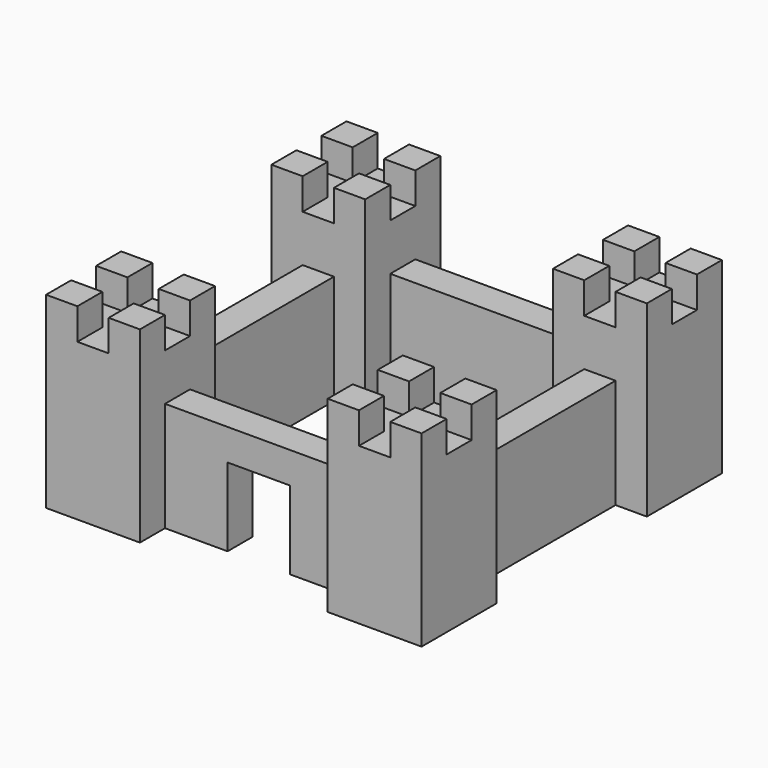
from build123d import *

# Parameters (mm, degrees)
BOX009_W     = 1
BOX009_H     = 1
BOX009_DEPTH = 1
BOX008_W     = 1
BOX008_H     = 1
BOX008_DEPTH = 1
BOX007_W     = 1
BOX007_H     = 1
BOX007_DEPTH = 1
BOX006_W     = 1
BOX006_H     = 1
BOX006_DEPTH = 1
BOX005_W     = 1
BOX005_H     = 1
BOX005_DEPTH = 1
BOX003_W     = 3
BOX003_H     = 3
BOX003_DEPTH = 6
BOX015_W     = 1
BOX015_H     = 1
BOX015_DEPTH = 1
BOX014_W     = 1
BOX014_H     = 1
BOX014_DEPTH = 1
BOX013_W     = 1
BOX013_H     = 1
BOX013_DEPTH = 1
BOX012_W     = 1
BOX012_H     = 1
BOX012_DEPTH = 1
BOX011_W     = 1
BOX011_H     = 1
BOX011_DEPTH = 1
BOX010_W     = 3
BOX010_H     = 3
BOX010_DEPTH = 6
BOX021_W     = 1
BOX021_H     = 1
BOX021_DEPTH = 1
BOX020_W     = 1
BOX020_H     = 1
BOX020_DEPTH = 1
BOX019_W     = 1
BOX019_H     = 1
BOX019_DEPTH = 1
BOX018_W     = 1
BOX018_H     = 1
BOX018_DEPTH = 1
BOX017_W     = 1
BOX017_H     = 1
BOX017_DEPTH = 1
BOX016_W     = 3
BOX016_H     = 3
BOX016_DEPTH = 6
BOX027_W     = 1
BOX027_H     = 1
BOX027_DEPTH = 1
BOX026_W     = 1
BOX026_H     = 1
BOX026_DEPTH = 1
BOX025_W     = 1
BOX025_H     = 1
BOX025_DEPTH = 1
BOX024_W     = 1
BOX024_H     = 1
BOX024_DEPTH = 1
BOX023_W     = 1
BOX023_H     = 1
BOX023_DEPTH = 1
BOX022_W     = 3
BOX022_H     = 3
BOX022_DEPTH = 6
BOX002_W     = 2
BOX002_H     = 10
BOX002_DEPTH = 2.5
BOX001_W     = 8
BOX001_H     = 8
BOX001_DEPTH = 10
BOX_W        = 10
BOX_H        = 10
BOX_DEPTH    = 3.5


with BuildPart() as cubo009:
    # Box009 → Box009 (new body)
    with BuildSketch(Plane(origin=(-2, 1, 5), x_dir=(1, 0, 0), z_dir=(0, 0, 1))):
        with Locations((0.5, 0.5)):
            Rectangle(BOX009_W, BOX009_H)
    extrude(amount=BOX009_DEPTH)


with BuildPart() as cubo008:
    # Box008 → Box008 (new body)
    with BuildSketch(Plane(origin=(-4, 1, 5), x_dir=(1, 0, 0), z_dir=(0, 0, 1))):
        with Locations((0.5, 0.5)):
            Rectangle(BOX008_W, BOX008_H)
    extrude(amount=BOX008_DEPTH)


with BuildPart() as cubo007:
    # Box007 → Box007 (new body)
    with BuildSketch(Plane(origin=(-3, 1, 5), x_dir=(1, 0, 0), z_dir=(0, 0, 1))):
        with Locations((0.5, 0.5)):
            Rectangle(BOX007_W, BOX007_H)
    extrude(amount=BOX007_DEPTH)


with BuildPart() as cubo006:
    # Box006 → Box006 (new body)
    with BuildSketch(Plane(origin=(-3, 2, 5), x_dir=(1, 0, 0), z_dir=(0, 0, 1))):
        with Locations((0.5, 0.5)):
            Rectangle(BOX006_W, BOX006_H)
    extrude(amount=BOX006_DEPTH)


with BuildPart() as cubo005:
    # Box005 → Box005 (new body)
    with BuildSketch(Plane(origin=(-3, 0, 5), x_dir=(1, 0, 0), z_dir=(0, 0, 1))):
        with Locations((0.5, 0.5)):
            Rectangle(BOX005_W, BOX005_H)
    extrude(amount=BOX005_DEPTH)


with BuildPart() as cut006:
    # Box003 → Box003 (new body)
    with BuildSketch(Plane(origin=(-4, 0, 0), x_dir=(1, 0, 0), z_dir=(0, 0, 1))):
        with Locations((1.5, 1.5)):
            Rectangle(BOX003_W, BOX003_H)
    extrude(amount=BOX003_DEPTH)

    # Cut002: cut Cubo005
    add(cubo005.part, mode=Mode.SUBTRACT)

    # Cut003: cut Cubo006
    add(cubo006.part, mode=Mode.SUBTRACT)

    # Cut004: cut Cubo007
    add(cubo007.part, mode=Mode.SUBTRACT)

    # Cut005: cut Cubo008
    add(cubo008.part, mode=Mode.SUBTRACT)

    # Cut006: cut Cubo009
    add(cubo009.part, mode=Mode.SUBTRACT)


with BuildPart() as cut006_1:
    # Cut006 placement: moved
    add(cut006.part.moved(Location((12, -1, 0))))


with BuildPart() as cubo015:
    # Box015 → Box015 (new body)
    with BuildSketch(Plane(origin=(-2, 1, 5), x_dir=(1, 0, 0), z_dir=(0, 0, 1))):
        with Locations((0.5, 0.5)):
            Rectangle(BOX015_W, BOX015_H)
    extrude(amount=BOX015_DEPTH)


with BuildPart() as cubo014:
    # Box014 → Box014 (new body)
    with BuildSketch(Plane(origin=(-4, 1, 5), x_dir=(1, 0, 0), z_dir=(0, 0, 1))):
        with Locations((0.5, 0.5)):
            Rectangle(BOX014_W, BOX014_H)
    extrude(amount=BOX014_DEPTH)


with BuildPart() as cubo013:
    # Box013 → Box013 (new body)
    with BuildSketch(Plane(origin=(-3, 1, 5), x_dir=(1, 0, 0), z_dir=(0, 0, 1))):
        with Locations((0.5, 0.5)):
            Rectangle(BOX013_W, BOX013_H)
    extrude(amount=BOX013_DEPTH)


with BuildPart() as cubo012:
    # Box012 → Box012 (new body)
    with BuildSketch(Plane(origin=(-3, 2, 5), x_dir=(1, 0, 0), z_dir=(0, 0, 1))):
        with Locations((0.5, 0.5)):
            Rectangle(BOX012_W, BOX012_H)
    extrude(amount=BOX012_DEPTH)


with BuildPart() as cubo011:
    # Box011 → Box011 (new body)
    with BuildSketch(Plane(origin=(-3, 0, 5), x_dir=(1, 0, 0), z_dir=(0, 0, 1))):
        with Locations((0.5, 0.5)):
            Rectangle(BOX011_W, BOX011_H)
    extrude(amount=BOX011_DEPTH)


with BuildPart() as cut011:
    # Box010 → Box010 (new body)
    with BuildSketch(Plane(origin=(-4, 0, 0), x_dir=(1, 0, 0), z_dir=(0, 0, 1))):
        with Locations((1.5, 1.5)):
            Rectangle(BOX010_W, BOX010_H)
    extrude(amount=BOX010_DEPTH)

    # Cut007: cut Cubo011
    add(cubo011.part, mode=Mode.SUBTRACT)

    # Cut008: cut Cubo012
    add(cubo012.part, mode=Mode.SUBTRACT)

    # Cut009: cut Cubo013
    add(cubo013.part, mode=Mode.SUBTRACT)

    # Cut010: cut Cubo014
    add(cubo014.part, mode=Mode.SUBTRACT)

    # Cut011: cut Cubo015
    add(cubo015.part, mode=Mode.SUBTRACT)


with BuildPart() as cut011_1:
    # Cut011 placement: moved
    add(cut011.part.moved(Location((3, -1, 0))))


with BuildPart() as cubo021:
    # Box021 → Box021 (new body)
    with BuildSketch(Plane(origin=(-2, 1, 5), x_dir=(1, 0, 0), z_dir=(0, 0, 1))):
        with Locations((0.5, 0.5)):
            Rectangle(BOX021_W, BOX021_H)
    extrude(amount=BOX021_DEPTH)


with BuildPart() as cubo020:
    # Box020 → Box020 (new body)
    with BuildSketch(Plane(origin=(-4, 1, 5), x_dir=(1, 0, 0), z_dir=(0, 0, 1))):
        with Locations((0.5, 0.5)):
            Rectangle(BOX020_W, BOX020_H)
    extrude(amount=BOX020_DEPTH)


with BuildPart() as cubo019:
    # Box019 → Box019 (new body)
    with BuildSketch(Plane(origin=(-3, 1, 5), x_dir=(1, 0, 0), z_dir=(0, 0, 1))):
        with Locations((0.5, 0.5)):
            Rectangle(BOX019_W, BOX019_H)
    extrude(amount=BOX019_DEPTH)


with BuildPart() as cubo018:
    # Box018 → Box018 (new body)
    with BuildSketch(Plane(origin=(-3, 2, 5), x_dir=(1, 0, 0), z_dir=(0, 0, 1))):
        with Locations((0.5, 0.5)):
            Rectangle(BOX018_W, BOX018_H)
    extrude(amount=BOX018_DEPTH)


with BuildPart() as cubo017:
    # Box017 → Box017 (new body)
    with BuildSketch(Plane(origin=(-3, 0, 5), x_dir=(1, 0, 0), z_dir=(0, 0, 1))):
        with Locations((0.5, 0.5)):
            Rectangle(BOX017_W, BOX017_H)
    extrude(amount=BOX017_DEPTH)


with BuildPart() as cut016:
    # Box016 → Box016 (new body)
    with BuildSketch(Plane(origin=(-4, 0, 0), x_dir=(1, 0, 0), z_dir=(0, 0, 1))):
        with Locations((1.5, 1.5)):
            Rectangle(BOX016_W, BOX016_H)
    extrude(amount=BOX016_DEPTH)

    # Cut012: cut Cubo017
    add(cubo017.part, mode=Mode.SUBTRACT)

    # Cut013: cut Cubo018
    add(cubo018.part, mode=Mode.SUBTRACT)

    # Cut014: cut Cubo019
    add(cubo019.part, mode=Mode.SUBTRACT)

    # Cut015: cut Cubo020
    add(cubo020.part, mode=Mode.SUBTRACT)

    # Cut016: cut Cubo021
    add(cubo021.part, mode=Mode.SUBTRACT)


with BuildPart() as cut016_1:
    # Cut016 placement: moved
    add(cut016.part.moved(Location((3, 8, 0))))


with BuildPart() as cubo027:
    # Box027 → Box027 (new body)
    with BuildSketch(Plane(origin=(-2, 1, 5), x_dir=(1, 0, 0), z_dir=(0, 0, 1))):
        with Locations((0.5, 0.5)):
            Rectangle(BOX027_W, BOX027_H)
    extrude(amount=BOX027_DEPTH)


with BuildPart() as cubo026:
    # Box026 → Box026 (new body)
    with BuildSketch(Plane(origin=(-4, 1, 5), x_dir=(1, 0, 0), z_dir=(0, 0, 1))):
        with Locations((0.5, 0.5)):
            Rectangle(BOX026_W, BOX026_H)
    extrude(amount=BOX026_DEPTH)


with BuildPart() as cubo025:
    # Box025 → Box025 (new body)
    with BuildSketch(Plane(origin=(-3, 1, 5), x_dir=(1, 0, 0), z_dir=(0, 0, 1))):
        with Locations((0.5, 0.5)):
            Rectangle(BOX025_W, BOX025_H)
    extrude(amount=BOX025_DEPTH)


with BuildPart() as cubo024:
    # Box024 → Box024 (new body)
    with BuildSketch(Plane(origin=(-3, 2, 5), x_dir=(1, 0, 0), z_dir=(0, 0, 1))):
        with Locations((0.5, 0.5)):
            Rectangle(BOX024_W, BOX024_H)
    extrude(amount=BOX024_DEPTH)


with BuildPart() as cubo023:
    # Box023 → Box023 (new body)
    with BuildSketch(Plane(origin=(-3, 0, 5), x_dir=(1, 0, 0), z_dir=(0, 0, 1))):
        with Locations((0.5, 0.5)):
            Rectangle(BOX023_W, BOX023_H)
    extrude(amount=BOX023_DEPTH)


with BuildPart() as cut021:
    # Box022 → Box022 (new body)
    with BuildSketch(Plane(origin=(-4, 0, 0), x_dir=(1, 0, 0), z_dir=(0, 0, 1))):
        with Locations((1.5, 1.5)):
            Rectangle(BOX022_W, BOX022_H)
    extrude(amount=BOX022_DEPTH)

    # Cut017: cut Cubo023
    add(cubo023.part, mode=Mode.SUBTRACT)

    # Cut018: cut Cubo024
    add(cubo024.part, mode=Mode.SUBTRACT)

    # Cut019: cut Cubo025
    add(cubo025.part, mode=Mode.SUBTRACT)

    # Cut020: cut Cubo026
    add(cubo026.part, mode=Mode.SUBTRACT)

    # Cut021: cut Cubo027
    add(cubo027.part, mode=Mode.SUBTRACT)


with BuildPart() as cut021_1:
    # Cut021 placement: moved
    add(cut021.part.moved(Location((12, 8, 0))))


with BuildPart() as cubo002:
    # Box002 → Box002 (new body)
    with BuildSketch(Plane(origin=(4, -3, 0), x_dir=(1, 0, 0), z_dir=(0, 0, 1))):
        with Locations((1, 5)):
            Rectangle(BOX002_W, BOX002_H)
    extrude(amount=BOX002_DEPTH)


with BuildPart() as cubo001:
    # Box001 → Box001 (new body)
    with BuildSketch(Plane(origin=(1, 1, -2), x_dir=(1, 0, 0), z_dir=(0, 0, 1))):
        with Locations((4, 4)):
            Rectangle(BOX001_W, BOX001_H)
    extrude(amount=BOX001_DEPTH)


with BuildPart() as fusion:
    # Box → Box (new body)
    with BuildSketch(Plane.XY):
        with Locations((5, 5)):
            Rectangle(BOX_W, BOX_H)
    extrude(amount=BOX_DEPTH)

    # Cut: cut Cubo001
    add(cubo001.part, mode=Mode.SUBTRACT)

    # Cut001: cut Cubo002
    add(cubo002.part, mode=Mode.SUBTRACT)

    # Fusion: union Cut006, Cut011, Cut016, Cut021
    add(cut006_1.part)
    add(cut011_1.part)
    add(cut016_1.part)
    add(cut021_1.part)


solid = fusion.part
